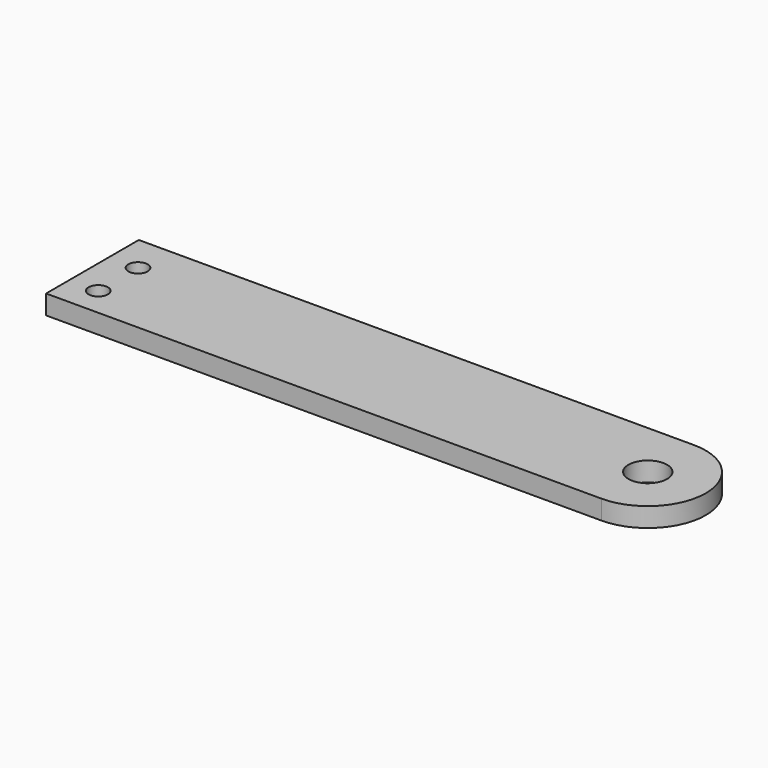
from build123d import *

# Parameters (mm, degrees)
F0_R     = 3.175
F0_R_2   = 6.35
F1_DEPTH = 6.35


with BuildPart() as f1:
    # F0 (on Top) → F1 (new body)
    with BuildSketch(Plane.XY):
        with BuildLine():
            Line((-101.490255, -19.05), (81.072245, -19.05))
            ThreePointArc((81.072245, -19.05), (100.122245, 0), (81.072245, 19.05))
            Line((81.072245, 19.05), (-101.490255, 19.05))
            Line((-101.490255, 19.05), (-101.490255, -19.05))
        make_face()
        with Locations((-91.965255, -9.525)):
            Circle(F0_R, mode=Mode.SUBTRACT)
        with Locations((-91.965255, 6.8072)):
            Circle(F0_R, mode=Mode.SUBTRACT)
        with Locations((81.072245, 0)):
            Circle(F0_R_2, mode=Mode.SUBTRACT)
    extrude(amount=F1_DEPTH)


solid = f1.part
